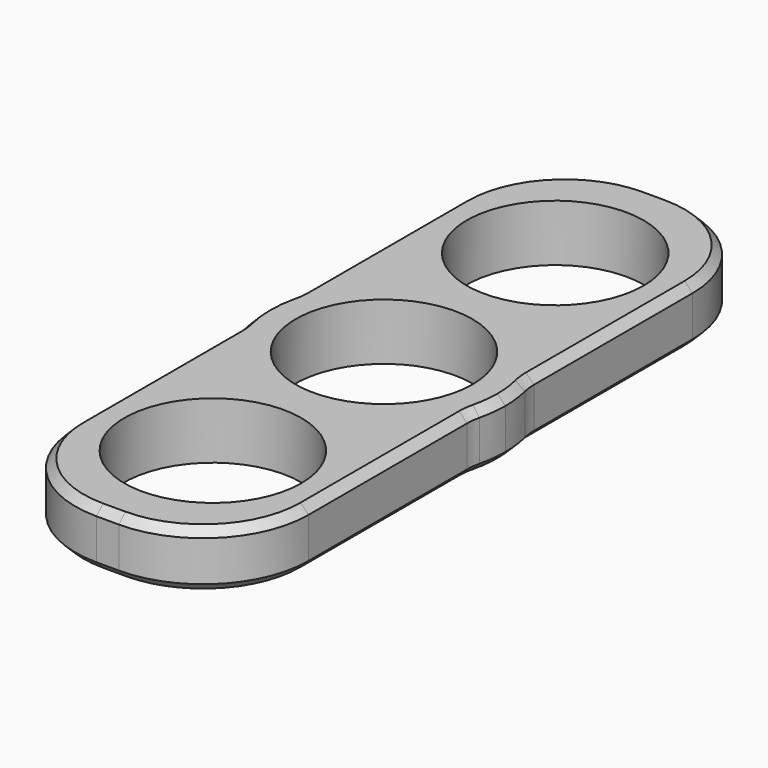
from build123d import *

# Parameters (mm, degrees)
F0_R     = 10.925
F1_DEPTH = 3.5
F2_R     = 13
F3_R     = 7
F4_SIZE  = 1


with BuildPart() as f1:
    # F0 (on Top) → F1 (new body, symmetric)
    with BuildSketch(Plane.XY):
        with BuildLine():
            ThreePointArc((-14.387438, 4.242832), (0, 15), (14.387438, 4.242832))
            Line((14.387438, 4.242832), (14.387438, 42.63803))
            Line((14.387438, 42.63803), (-14.387438, 42.63803))
            Line((-14.387438, 42.63803), (-14.387438, 4.242832))
        make_face()
        with Locations((0, 26.42202)):
            Circle(F0_R, mode=Mode.SUBTRACT)
        with BuildLine():
            ThreePointArc((14.387438, -4.242832), (14.84607, -2.143412), (15, 0))
            ThreePointArc((15, 0), (14.84607, 2.143412), (14.387438, 4.242832))
            ThreePointArc((14.387438, 4.242832), (0, 15), (-14.387438, 4.242832))
            ThreePointArc((-14.387438, 4.242832), (-15, 0), (-14.387438, -4.242832))
            ThreePointArc((-14.387438, -4.242832), (0, -15), (14.387438, -4.242832))
        make_face()
        Circle(F0_R, mode=Mode.SUBTRACT)
        with BuildLine():
            Line((14.387438, -42.63803), (14.387438, -4.242832))
            ThreePointArc((14.387438, -4.242832), (0, -15), (-14.387438, -4.242832))
            Line((-14.387438, -4.242832), (-14.387438, -42.63803))
            Line((-14.387438, -42.63803), (14.387438, -42.63803))
        make_face()
        with Locations((0, -26.42202)):
            Circle(F0_R, mode=Mode.SUBTRACT)
    extrude(amount=F1_DEPTH, both=True)

    # F2
    f2_edges = [f1.edges().sort_by_distance(p)[0] for p in [
        (-14.387438, 42.63803, 0),
        (14.387438, 42.63803, 0),
        (14.387438, -42.63803, 0),
        (-14.387438, -42.63803, 0),
    ]]
    fillet(f2_edges, radius=F2_R)

    # F3
    f3_edges = [f1.edges().sort_by_distance(p)[0] for p in [
        (14.387438, -4.242832, -1.75),
        (14.387438, 4.242832, -1.75),
        (-14.387438, 4.242832, 0),
        (-14.387438, -4.242832, 0),
    ]]
    fillet(f3_edges, radius=F3_R)

    # F4
    f4_edges = [f1.edges().sort_by_distance(p)[0] for p in [
        (14.387438, -17.396683, 3.5),
        (14.387438, -17.396683, -3.5),
    ]]
    chamfer(f4_edges, length=F4_SIZE)


solid = f1.part
